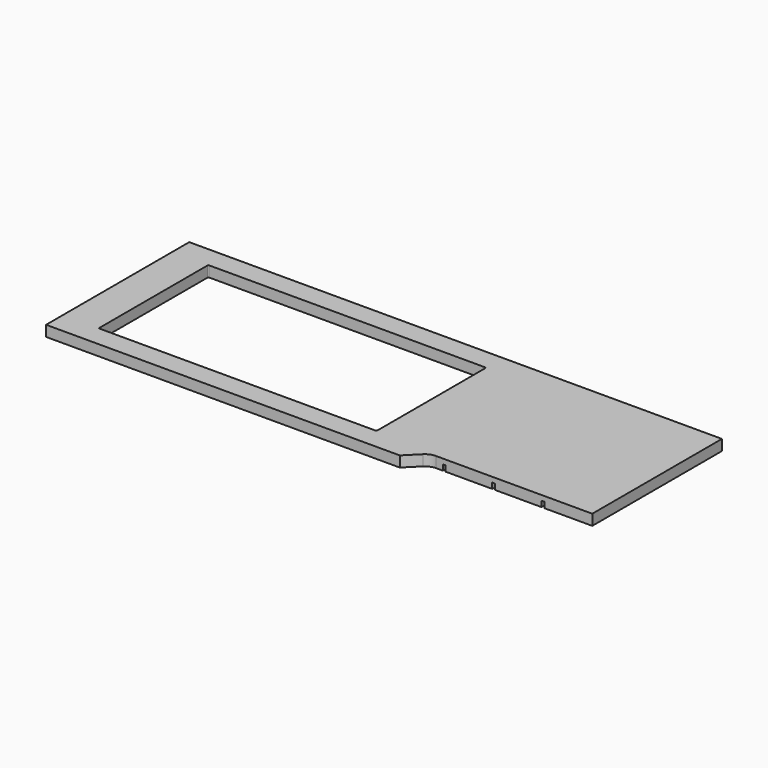
from build123d import *

# Parameters (mm, degrees)
PAD_DEPTH       = 38
POCKET_DEPTH    = 20
FILLET_R        = 4
FILLET001_R     = 4
FILLET002_R     = 3
SKETCH002_W     = 986
SKETCH002_H     = 486
POCKET001_DEPTH = 38.001
FILLET003_R     = 3


with BuildPart() as part:
    # Sketch → Pad (new body)
    with BuildSketch(Plane.XY):
        with BuildLine():
            Line((0, 0), (0, 635))
            Line((0, 635), (1890, 635))
            Line((1890, 635), (1890, 60))
            Line((1890, 60), (1335.710678, 60))
            ThreePointArc((1335.710678, 60), (1316.576507, 56.193977), (1300.355339, 45.355339))
            Line((1255, 0), (1300.355339, 45.355339))
            Line((0, 0), (1255, 0))
        make_face()
    extrude(amount=PAD_DEPTH)

    # Sketch001 (on Face8 of Pad) → Pocket (cut)
    with BuildSketch(Plane(origin=(0, 0, 0), x_dir=(1, 0, 0), z_dir=(0, 0, -1))):
        Polygon((1535, -60), (1535, -130), (1510, -154.999975), (1510, -190), (1570, -190), (1570, -154.999975), (1545, -130), (1545, -60), align=None)
        Polygon((1710, -60), (1710, -130), (1685, -154.999975), (1685, -190), (1745, -190), (1745, -154.999975), (1720, -130), (1720, -60), align=None)
        Polygon((1360, -60), (1360, -130), (1335, -155), (1335, -190), (1395, -190), (1395, -155), (1370, -130), (1370, -60), align=None)
    extrude(amount=-POCKET_DEPTH, mode=Mode.SUBTRACT)

    # Fillet
    fillet_edges = [part.edges().sort_by_distance(p)[0] for p in [
        (1510, 154.999975, 10),
        (1510, 190, 10),
        (1570, 190, 10),
        (1570, 154.999975, 10),
    ]]
    fillet(fillet_edges, radius=FILLET_R)

    # Fillet001
    fillet001_edges = [part.edges().sort_by_distance(p)[0] for p in [
        (1685, 154.999975, 10),
        (1685, 190, 10),
        (1745, 154.999975, 10),
        (1745, 190, 10),
    ]]
    fillet(fillet001_edges, radius=FILLET001_R)

    # Fillet002
    fillet002_edges = [part.edges().sort_by_distance(p)[0] for p in [
        (1335, 155, 10),
        (1335, 190, 10),
        (1395, 155, 10),
        (1395, 190, 10),
    ]]
    fillet(fillet002_edges, radius=FILLET002_R)

    # Sketch002 (on Face41 of Fillet001) → Pocket001 (cut, through all)
    with BuildSketch(Plane.XY.offset(38)):
        with Locations((620, 317.5)):
            Rectangle(SKETCH002_W, SKETCH002_H)
    extrude(amount=-POCKET001_DEPTH, mode=Mode.SUBTRACT)

    # Fillet003
    fillet003_edges = [part.edges().sort_by_distance(p)[0] for p in [
        (1113, 74.5, 19),
        (127, 560.5, 19),
        (127, 74.5, 19),
        (1113, 560.5, 19),
    ]]
    fillet(fillet003_edges, radius=FILLET003_R)


solid = part.part
